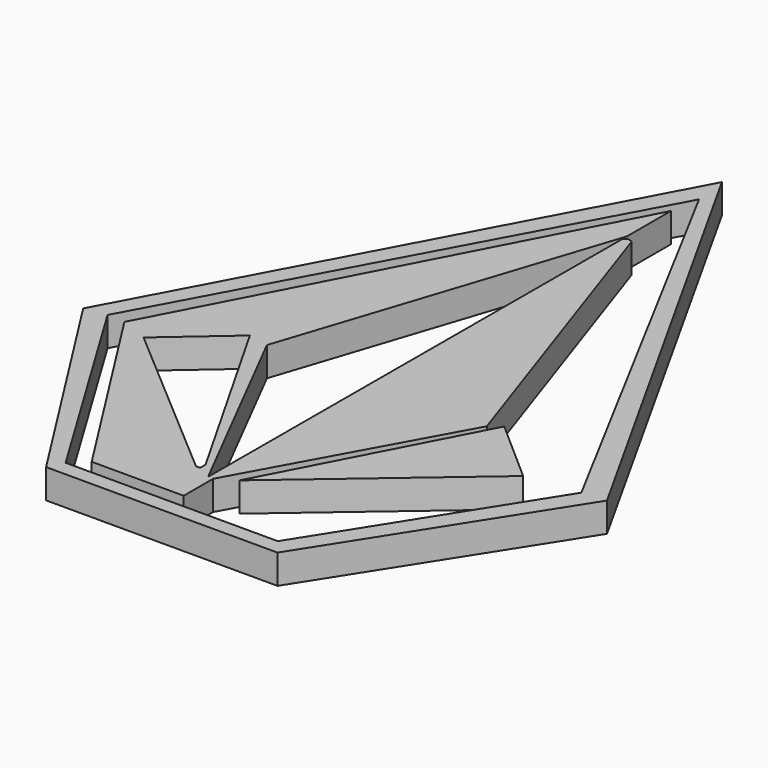
from build123d import *

# Parameters (mm, degrees)
F1_DEPTH = 5


with BuildPart() as f1:
    # F0 (on Top) → F1 (new body)
    with BuildSketch(Plane.XY):
        Polygon((0.88488, 64.579044), (-42.788993, -17.010625), (-18.053449, -55.840638), (21.420527, -55.840638), (46.307392, -16.706728), align=None)
        Polygon((-16.80217, -53.23939), (-39.076599, -16.457915), (1.622124, 58.79033), (42.220132, -17.063222), (19.397451, -53.23939), align=None, mode=Mode.SUBTRACT)
        Polygon((-14.270044, -50.845623), (0.998022, -50.845623), (1.420538, -50.845623), (1.420538, -44.567276), (20.42524, -9.979628), (2.213659, 43.681524), (1.420538, 43.941671), (0.782004, 43.534911), (0.550265, -44.567276), (-17.078363, -9.979628), (0.782004, 44.471896), (0.782004, 53.845434), (-36.068867, -16.625692), align=None)
        Polygon((-2.611788, -43.177481), (-31.268311, -18.54063), (-20.575534, -9.236524), (-1.902362, -42.035673), (-1.902362, -43.177481), align=None, mode=Mode.SUBTRACT)
        Polygon((33.173581, -18.154354), (22.274216, -8.576122), (4.438888, -42.7605), align=None)
    extrude(amount=F1_DEPTH)


solid = f1.part
